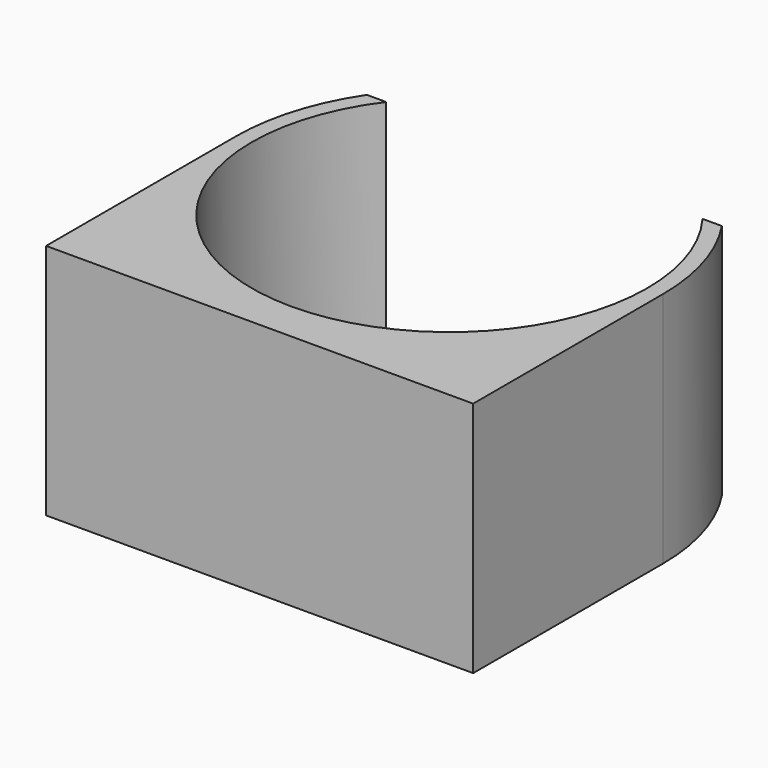
from build123d import *

# Parameters (mm, degrees)
F1_DEPTH = 15


with BuildPart() as f1:
    # F0 (on Top) → F1 (new body)
    with BuildSketch(Plane.XY):
        with BuildLine():
            ThreePointArc((23.5, 22.5), (13.5, 2.5), (3.5, 22.5))
            Line((3.5, 22.5), (2.275028, 22.5))
            ThreePointArc((2.275028, 22.5), (0.581271, 18.918729), (0, 15))
            Line((0, 15), (0, 0))
            Line((0, 0), (27, 0))
            Line((27, 0), (27, 15))
            ThreePointArc((27, 15), (26.418729, 18.918729), (24.724972, 22.5))
            Line((24.724972, 22.5), (23.5, 22.5))
        make_face()
    extrude(amount=F1_DEPTH)


solid = f1.part
